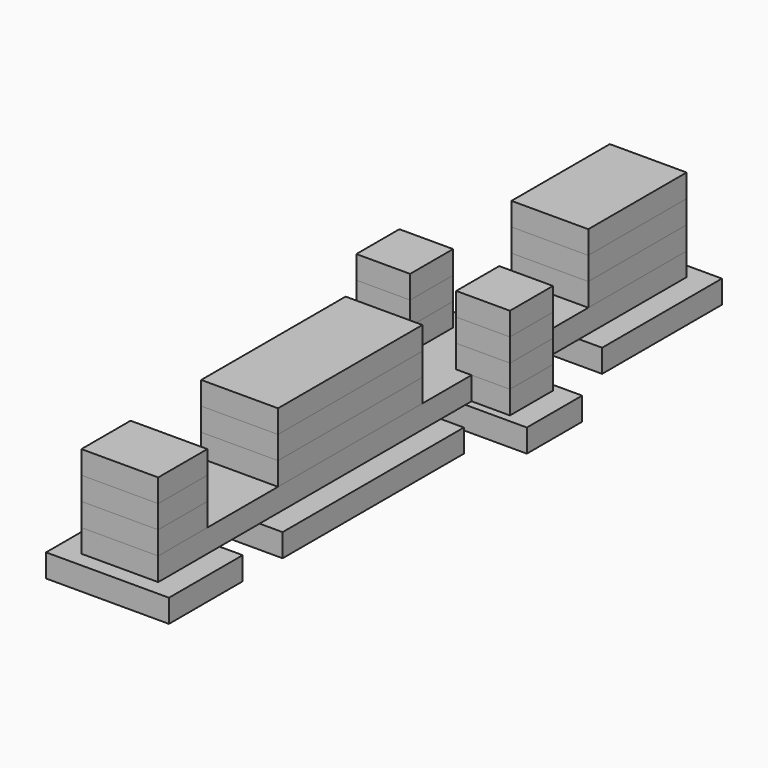
from build123d import *

# Parameters (mm, degrees)
F0_W     = 406.4
F0_H     = 304.8
F1_DEPTH = 76.2
F0_H_2   = 749.3
F0_W_2   = 660.4
F0_H_3   = 228.6
F0_H_4   = 495.3
F2_W     = 254
F2_H     = 254
F3_DEPTH = 76.2
F4_W     = 254
F4_H     = 203.2
F5_DEPTH = 76.2
F4_H_2   = 596.9
F4_H_3   = 406.4
F6_DEPTH = 76.2
F7_DEPTH = 76.2


with BuildPart() as f1:
    # F0 (on Top) → F1 (new body)
    with BuildSketch(Plane.XY):
        with Locations((-47.8693349523, -629.4977704952)):
            Rectangle(F0_W, F0_H)
    extrude(amount=F1_DEPTH)


with BuildPart() as f1b:
    # F0 (on Top) → F1, piece 2 (new body)
    with BuildSketch(Plane.XY):
        with Locations((-47.8693349523, 62.6522295048)):
            Rectangle(F0_W, F0_H_2)
    extrude(amount=F1_DEPTH)


with BuildPart() as f1c:
    # F0 (on Top) → F1, piece 3 (new body)
    with BuildSketch(Plane.XY):
        with Locations((-47.8693349523, 653.2022295048)):
            Rectangle(F0_W_2, F0_H_3)
    extrude(amount=F1_DEPTH)


with BuildPart() as f1d:
    # F0 (on Top) → F1, piece 4 (new body)
    with BuildSketch(Plane.XY):
        with Locations((-47.8693349523, 1256.4522295048)):
            Rectangle(F0_W, F0_H_4)
    extrude(amount=F1_DEPTH)


with BuildPart() as f3:
    # F2 (on face) → F3 (new body)
    with BuildSketch(Plane.XY.offset(76.2)):
        Polygon((-174.8693349523, 564.3022295048), (-174.8693349523, -477.0977704952), (79.1306650477, -477.0977704952), (79.1306650477, 564.3022295048), (206.1306650477, 564.3022295048), (206.1306650477, 742.1022295048), (79.1306650477, 742.1022295048), (79.1306650477, 1453.3022295048), (-174.8693349523, 1453.3022295048), (-174.8693349523, 742.1022295048), (-301.8693349523, 742.1022295048), (-301.8693349523, 564.3022295048), align=None)
        with Locations((-47.8693349523, -604.0977704952)):
            Rectangle(F2_W, F2_H)
    extrude(amount=F3_DEPTH)


with BuildPart() as f5:
    # F4 (on face) → F5 (new body)
    with BuildSketch(Plane.XY.offset(152.4)):
        with Locations((-47.8693349523, -629.4977704952)):
            Rectangle(F4_W, F4_H)
    extrude(amount=F5_DEPTH)


with BuildPart() as f5b:
    # F4 (on face) → F5, piece 2 (new body)
    with BuildSketch(Plane.XY.offset(152.4)):
        with Locations((-47.8693349523, 62.6522295048)):
            Rectangle(F4_W, F4_H_2)
    extrude(amount=F5_DEPTH)


with BuildPart() as f5c:
    # F4 (on face) → F5, piece 3 (new body)
    with BuildSketch(Plane.XY.offset(152.4)):
        Polygon((-301.8693349523, 564.3022295048), (-174.8693349523, 564.3022295048), (-124.0693349523, 564.3022295048), (-124.0693349523, 742.1022295048), (-174.8693349523, 742.1022295048), (-301.8693349523, 742.1022295048), align=None)
    extrude(amount=F5_DEPTH)


with BuildPart() as f5d:
    # F4 (on face) → F5, piece 4 (new body)
    with BuildSketch(Plane.XY.offset(152.4)):
        Polygon((28.3306650477, 564.3022295048), (79.1306650477, 564.3022295048), (206.1306650477, 564.3022295048), (206.1306650477, 742.1022295048), (79.1306650477, 742.1022295048), (28.3306650477, 742.1022295048), align=None)
    extrude(amount=F5_DEPTH)


with BuildPart() as f5e:
    # F4 (on face) → F5, piece 5 (new body)
    with BuildSketch(Plane.XY.offset(152.4)):
        with Locations((-47.8693349523, 1250.1022295048)):
            Rectangle(F4_W, F4_H_3)
    extrude(amount=F5_DEPTH)


with BuildPart() as f6:
    # F6 (new): a face of the model
    f6_faces = [f5.part.faces().sort_by_distance(p)[0] for p in [
        (-47.8693349523, -629.4977704952, 228.6),
    ]]
    extrude(f6_faces, amount=F6_DEPTH)


with BuildPart() as f6b:
    # F6#2 (new): a face of the model
    f6_2_faces = [f5b.part.faces().sort_by_distance(p)[0] for p in [
        (-47.8693349523, 62.6522295048, 228.6),
    ]]
    extrude(f6_2_faces, amount=F6_DEPTH)


with BuildPart() as f6c:
    # F6#3 (new): a face of the model
    f6_3_faces = [f5c.part.faces().sort_by_distance(p)[0] for p in [
        (-212.9693349523, 653.2022295048, 228.6),
    ]]
    extrude(f6_3_faces, amount=F6_DEPTH)


with BuildPart() as f6d:
    # F6#4 (new): a face of the model
    f6_4_faces = [f5d.part.faces().sort_by_distance(p)[0] for p in [
        (117.2306650477, 653.2022295048, 228.6),
    ]]
    extrude(f6_4_faces, amount=F6_DEPTH)


with BuildPart() as f6e:
    # F6#5 (new): a face of the model
    f6_5_faces = [f5e.part.faces().sort_by_distance(p)[0] for p in [
        (-47.8693349523, 1250.1022295048, 228.6),
    ]]
    extrude(f6_5_faces, amount=F6_DEPTH)


with BuildPart() as f7:
    # F7 (new): a face of the model
    f7_faces = [f6.part.faces().sort_by_distance(p)[0] for p in [
        (-47.8693349523, -629.4977704952, 304.8),
    ]]
    extrude(f7_faces, amount=F7_DEPTH)


with BuildPart() as f7b:
    # F7#2 (new): a face of the model
    f7_2_faces = [f6b.part.faces().sort_by_distance(p)[0] for p in [
        (-47.8693349523, 62.6522295048, 304.8),
    ]]
    extrude(f7_2_faces, amount=F7_DEPTH)


with BuildPart() as f7c:
    # F7#3 (new): a face of the model
    f7_3_faces = [f6c.part.faces().sort_by_distance(p)[0] for p in [
        (-212.9693349523, 653.2022295048, 304.8),
    ]]
    extrude(f7_3_faces, amount=F7_DEPTH)


with BuildPart() as f7d:
    # F7#4 (new): a face of the model
    f7_4_faces = [f6d.part.faces().sort_by_distance(p)[0] for p in [
        (117.2306650477, 653.2022295048, 304.8),
    ]]
    extrude(f7_4_faces, amount=F7_DEPTH)


with BuildPart() as f7e:
    # F7#5 (new): a face of the model
    f7_5_faces = [f6e.part.faces().sort_by_distance(p)[0] for p in [
        (-47.8693349523, 1250.1022295048, 304.8),
    ]]
    extrude(f7_5_faces, amount=F7_DEPTH)


solid = Compound([f1.part, f1b.part, f1c.part, f1d.part, f3.part, f5.part, f5b.part, f5c.part, f5d.part, f5e.part, f6.part, f6b.part, f6c.part, f6d.part, f6e.part, f7.part, f7b.part, f7c.part, f7d.part, f7e.part])
